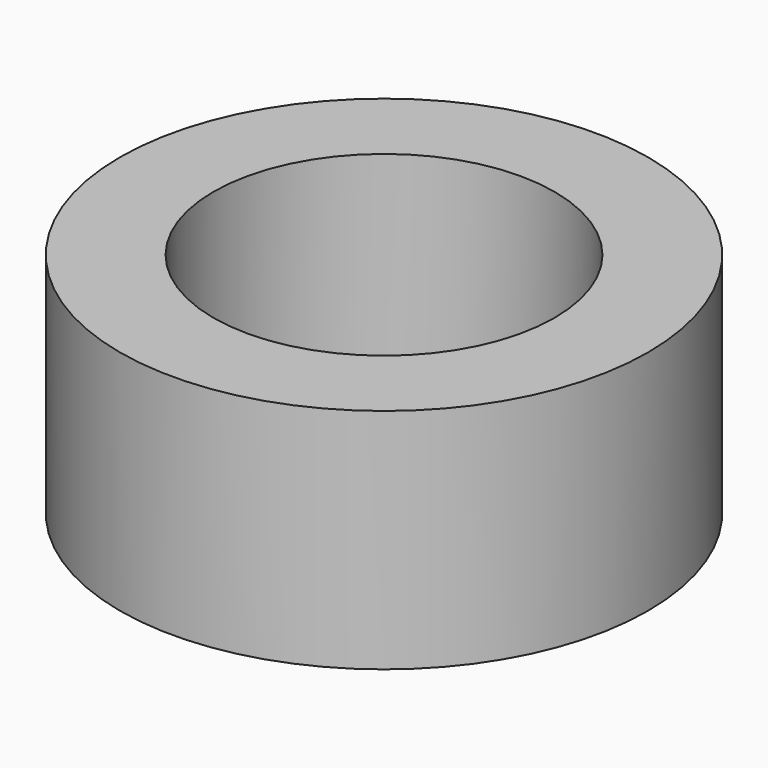
from build123d import *

# Parameters (mm, degrees)
SKETCH_R   = 20.9
SKETCH_R_2 = 13.5
PAD_DEPTH  = 18


with BuildPart() as part:
    # Sketch → Pad (new body)
    with BuildSketch(Plane.XY):
        Circle(SKETCH_R)
        Circle(SKETCH_R_2, mode=Mode.SUBTRACT)
    extrude(amount=PAD_DEPTH)


solid = part.part
